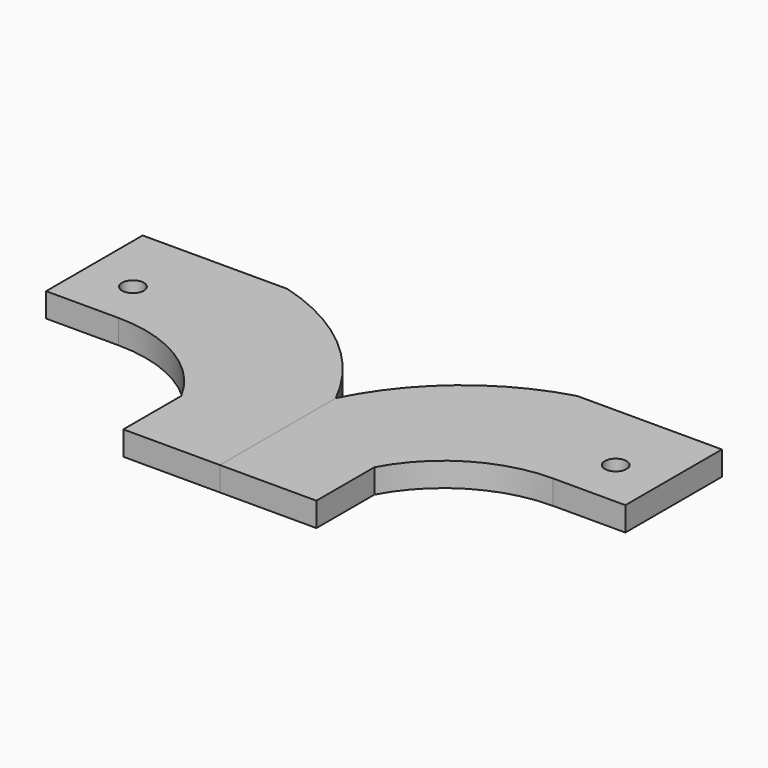
from build123d import *

# Parameters (mm, degrees)
F1_DEPTH = 5
F2_R     = 2.25
F3_DEPTH = 5.001


with BuildPart() as f1:
    # F0 (on Top) → F1 (new body)
    with BuildSketch(Plane.XY):
        with BuildLine():
            Line((-20, 0), (0, 0))
            Line((0, 0), (0, 30))
            ThreePointArc((0, 30), (-12.343257, 45.688092), (-30, 55))
            Line((-30, 55), (-60, 55))
            Line((-60, 55), (-60, 30))
            Line((-60, 30), (-45, 30))
            ThreePointArc((-45, 30), (-30.42262, 25.9623), (-20, 15))
            Line((-20, 15), (-20, 0))
        make_face()
    extrude(amount=F1_DEPTH)

    # F2 (on face) → F3 (cut, through all)
    with BuildSketch(Plane.XY.offset(5)):
        with Locations((-50, 40)):
            Circle(F2_R)
    extrude(amount=-F3_DEPTH, mode=Mode.SUBTRACT)


with BuildPart() as f4_1:
    # F4: instance of F1
    add(f1.part.mirror(Plane.YZ))


solid = Compound([f1.part, f4_1.part])
